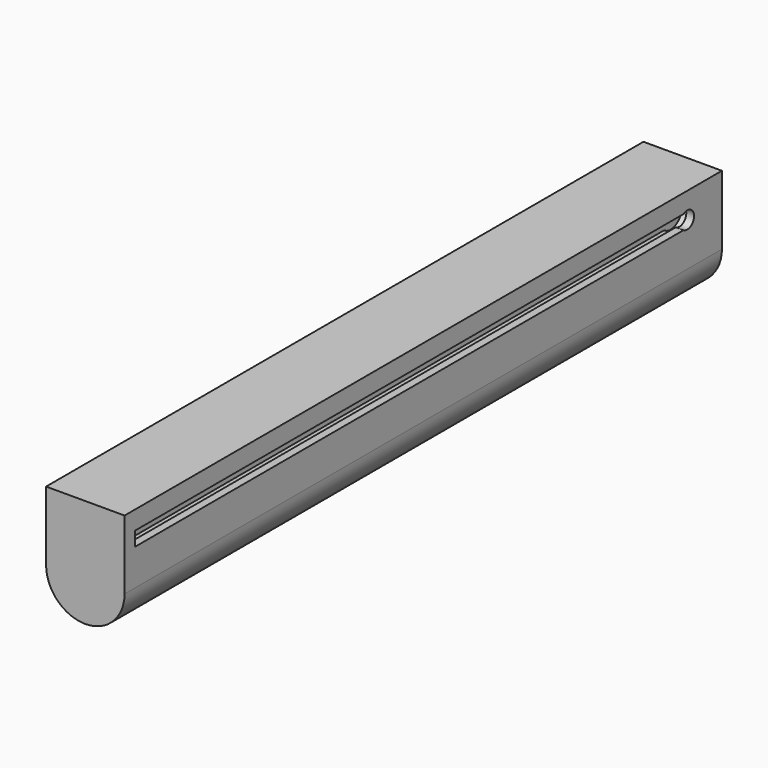
from build123d import *

# Parameters (mm, degrees)
F1_DEPTH  = 275.93
F3_DEPTH  = 255.93
F9_OFFSET = 0.125


with BuildPart() as f1:
    # F0 (on Front) → F1 (new body)
    with BuildSketch(Plane.XZ):
        with BuildLine():
            Line((-14.5, 0), (-14.5, -25.5))
            ThreePointArc((-14.5, -25.5), (-10.2530483272, -35.7530483272), (0, -40))
            ThreePointArc((0, -40), (10.2530483272, -35.7530483272), (14.5, -25.5))
            Line((14.5, -25.5), (14.5, 0))
            Line((14.5, 0), (-14.5, 0))
        make_face()
    extrude(amount=-F1_DEPTH)


with BuildPart() as f3:
    # F2 (on Front) → F3 (new body)
    with BuildSketch(Plane.XZ):
        Polygon((0, -4.5), (0, 3.5), (-3, 3.5), (-3, 2), (-8, 2), (-8, -3), (-3, -3), (-3, -4.5), align=None)
    extrude(amount=-F3_DEPTH)


with BuildPart() as f3_1:
    # F4: moved
    add(f3.part.moved(Location((-8.5, 5, -9))))


with BuildPart() as f6:
    # F5 (on Front) → F6 (revolve)
    with BuildSketch(Plane.XZ):
        Polygon((3, 5), (0, 5), (0, 0), (3, 0), (8, 0), (8, 3), (3, 3), align=None)
    revolve(axis=Axis((1.5, 0, 0), (1, 0, 0)))


with BuildPart() as f6_1:
    # F7: moved
    add(f6.part.moved(Location((8.5, 259.93, -9.5))))


with BuildPart() as f8_1:
    # F8: instance of F3
    add(f3_1.part.mirror(Plane.YZ))


with BuildPart() as f8_2:
    # F8: instance of F6
    add(f6_1.part.mirror(Plane.YZ))


with BuildPart() as f1_1:
    add(f1.part)

    # F9: cut F8_1, F3, F6, F8_2, each made larger all round first
    f9_tool = offset(f8_1.part, amount=F9_OFFSET, kind=Kind.INTERSECTION, mode=Mode.PRIVATE)
    add(f9_tool, mode=Mode.SUBTRACT)
    f9_tool1 = offset(f3_1.part, amount=F9_OFFSET, kind=Kind.INTERSECTION, mode=Mode.PRIVATE)
    add(f9_tool1, mode=Mode.SUBTRACT)
    f9_tool2 = offset(f6_1.part, amount=F9_OFFSET, kind=Kind.INTERSECTION, mode=Mode.PRIVATE)
    add(f9_tool2, mode=Mode.SUBTRACT)
    f9_tool3 = offset(f8_2.part, amount=F9_OFFSET, kind=Kind.INTERSECTION, mode=Mode.PRIVATE)
    add(f9_tool3, mode=Mode.SUBTRACT)


solid = f1_1.part
